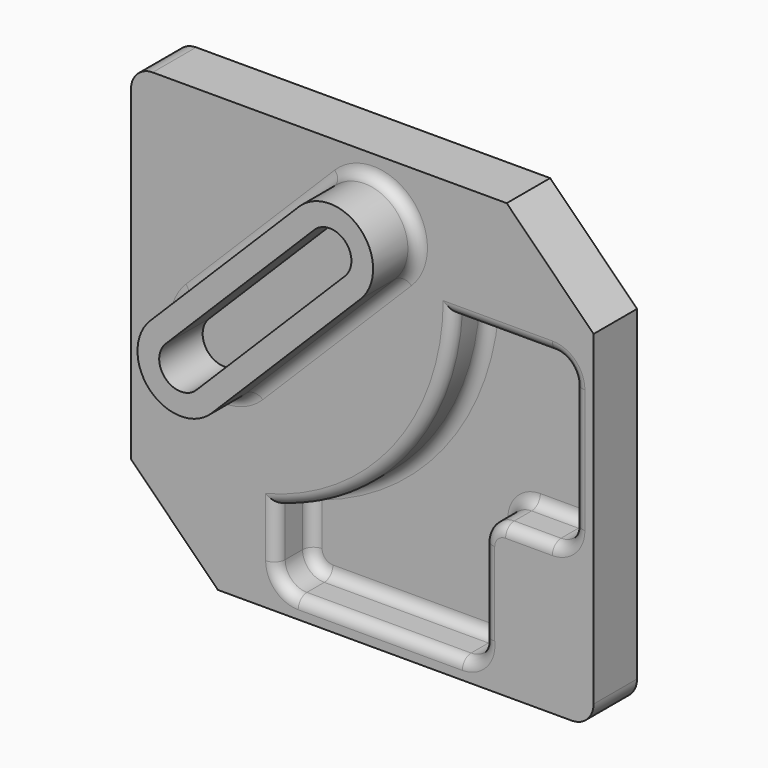
from build123d import *

# Parameters (mm, degrees)
F1_DEPTH = 25
F2_DEPTH = 25
F3_DEPTH = 20
F4_R     = 5


with BuildPart() as f1:
    # F0 (on Front) → F1 (new body)
    with BuildSketch(Plane.XZ):
        with BuildLine():
            Line((-40, 40), (0, 0))
            Line((0, 0), (163, 0))
            ThreePointArc((163, 0), (170.071068, 2.928932), (173, 10))
            Line((173, 10), (173, 160))
            Line((173, 160), (133, 200))
            Line((133, 200), (-30, 200))
            ThreePointArc((-30, 200), (-37.071068, 197.071068), (-40, 190))
            Line((-40, 190), (-40, 40))
        make_face()
        with BuildLine():
            Line((112.58571, 9), (37, 9))
            ThreePointArc((37, 9), (29.928932, 11.928932), (27, 19))
            Line((27, 19), (27, 42.421554))
            ThreePointArc((27, 42.421554), (84.312311, 81.209106), (108.629286, 146))
            Line((108.629286, 146), (154, 146))
            ThreePointArc((154, 146), (161.071068, 143.071068), (164, 136))
            Line((164, 136), (164, 79))
            ThreePointArc((164, 79), (161.071068, 71.928932), (154, 69))
            Line((154, 69), (132.48784, 69))
            ThreePointArc((132.48784, 69), (125.416772, 66.071068), (122.48784, 59))
            Line((122.48784, 59), (122.48784, 20.395643))
            ThreePointArc((122.48784, 20.395643), (120.134101, 12.4409), (112.58571, 9))
        make_face(mode=Mode.SUBTRACT)
        with BuildLine():
            ThreePointArc((17.142136, 87.357864), (-11.142136, 87.357864), (-11.142136, 115.642136))
            Line((-11.142136, 115.642136), (57.357864, 184.142136))
            ThreePointArc((57.357864, 184.142136), (85.642136, 184.142136), (85.642136, 155.857864))
            Line((85.642136, 155.857864), (17.142136, 87.357864))
        make_face(mode=Mode.SUBTRACT)
        with BuildLine():
            ThreePointArc((27, 19), (29.928932, 11.928932), (37, 9))
            Line((37, 9), (112.58571, 9))
            ThreePointArc((112.58571, 9), (120.134101, 12.4409), (122.48784, 20.395643))
            Line((122.48784, 20.395643), (122.48784, 59))
            ThreePointArc((122.48784, 59), (125.416772, 66.071068), (132.48784, 69))
            Line((132.48784, 69), (154, 69))
            ThreePointArc((154, 69), (161.071068, 71.928932), (164, 79))
            Line((164, 79), (164, 136))
            ThreePointArc((164, 136), (161.071068, 143.071068), (154, 146))
            Line((154, 146), (108.629286, 146))
            ThreePointArc((108.629286, 146), (84.312311, 81.209106), (27, 42.421554))
            Line((27, 42.421554), (27, 19))
        make_face()
        with BuildLine():
            Line((57.357864, 184.142136), (-11.142136, 115.642136))
            ThreePointArc((-11.142136, 115.642136), (-11.142136, 87.357864), (17.142136, 87.357864))
            Line((17.142136, 87.357864), (85.642136, 155.857864))
            ThreePointArc((85.642136, 155.857864), (85.642136, 184.142136), (57.357864, 184.142136))
        make_face()
        with BuildLine():
            ThreePointArc((64.428932, 177.071068), (78.571068, 177.071068), (78.571068, 162.928932))
            Line((78.571068, 162.928932), (66.323619, 150.681483))
            Line((66.323619, 150.681483), (10.071068, 94.428932))
            ThreePointArc((10.071068, 94.428932), (-4.071068, 94.428932), (-4.071068, 108.571068))
            Line((-4.071068, 108.571068), (52.181483, 164.823619))
            Line((52.181483, 164.823619), (64.428932, 177.071068))
        make_face(mode=Mode.SUBTRACT)
        with BuildLine():
            Line((10.071068, 94.428932), (66.323619, 150.681483))
            ThreePointArc((66.323619, 150.681483), (57.357864, 155.857864), (52.181483, 164.823619))
            Line((52.181483, 164.823619), (-4.071068, 108.571068))
            ThreePointArc((-4.071068, 108.571068), (-4.071068, 94.428932), (10.071068, 94.428932))
        make_face()
        with BuildLine():
            Line((66.323619, 150.681483), (78.571068, 162.928932))
            ThreePointArc((78.571068, 162.928932), (78.571068, 177.071068), (64.428932, 177.071068))
            Line((64.428932, 177.071068), (52.181483, 164.823619))
            ThreePointArc((52.181483, 164.823619), (57.357864, 155.857864), (66.323619, 150.681483))
        make_face()
    extrude(amount=-F1_DEPTH)

    # F0 (on Front) → F2 (join)
    with BuildSketch(Plane.XZ):
        with BuildLine():
            Line((57.357864, 184.142136), (-11.142136, 115.642136))
            ThreePointArc((-11.142136, 115.642136), (-11.142136, 87.357864), (17.142136, 87.357864))
            Line((17.142136, 87.357864), (85.642136, 155.857864))
            ThreePointArc((85.642136, 155.857864), (85.642136, 184.142136), (57.357864, 184.142136))
        make_face()
        with BuildLine():
            ThreePointArc((64.428932, 177.071068), (78.571068, 177.071068), (78.571068, 162.928932))
            Line((78.571068, 162.928932), (66.323619, 150.681483))
            Line((66.323619, 150.681483), (10.071068, 94.428932))
            ThreePointArc((10.071068, 94.428932), (-4.071068, 94.428932), (-4.071068, 108.571068))
            Line((-4.071068, 108.571068), (52.181483, 164.823619))
            Line((52.181483, 164.823619), (64.428932, 177.071068))
        make_face(mode=Mode.SUBTRACT)
    extrude(amount=F2_DEPTH)

    # F0 (on Front) → F3 (cut)
    with BuildSketch(Plane.XZ):
        with BuildLine():
            ThreePointArc((27, 19), (29.928932, 11.928932), (37, 9))
            Line((37, 9), (112.58571, 9))
            ThreePointArc((112.58571, 9), (120.134101, 12.4409), (122.48784, 20.395643))
            Line((122.48784, 20.395643), (122.48784, 59))
            ThreePointArc((122.48784, 59), (125.416772, 66.071068), (132.48784, 69))
            Line((132.48784, 69), (154, 69))
            ThreePointArc((154, 69), (161.071068, 71.928932), (164, 79))
            Line((164, 79), (164, 136))
            ThreePointArc((164, 136), (161.071068, 143.071068), (154, 146))
            Line((154, 146), (108.629286, 146))
            ThreePointArc((108.629286, 146), (84.312311, 81.209106), (27, 42.421554))
            Line((27, 42.421554), (27, 19))
        make_face()
    extrude(amount=-F3_DEPTH, mode=Mode.SUBTRACT)

    # F4
    f4_edges = [f1.edges().sort_by_distance(p)[0] for p in [
        (51.392136, 0, 121.607864),
        (84.312311, 0, 81.209106),
        (84.312311, 20, 81.209106),
        (131.314643, 20, 146),
        (131.314643, 0, 146),
        (27, 0, 30.710777),
        (27, 20, 30.710777),
    ]]
    fillet(f4_edges, radius=F4_R)


solid = f1.part
